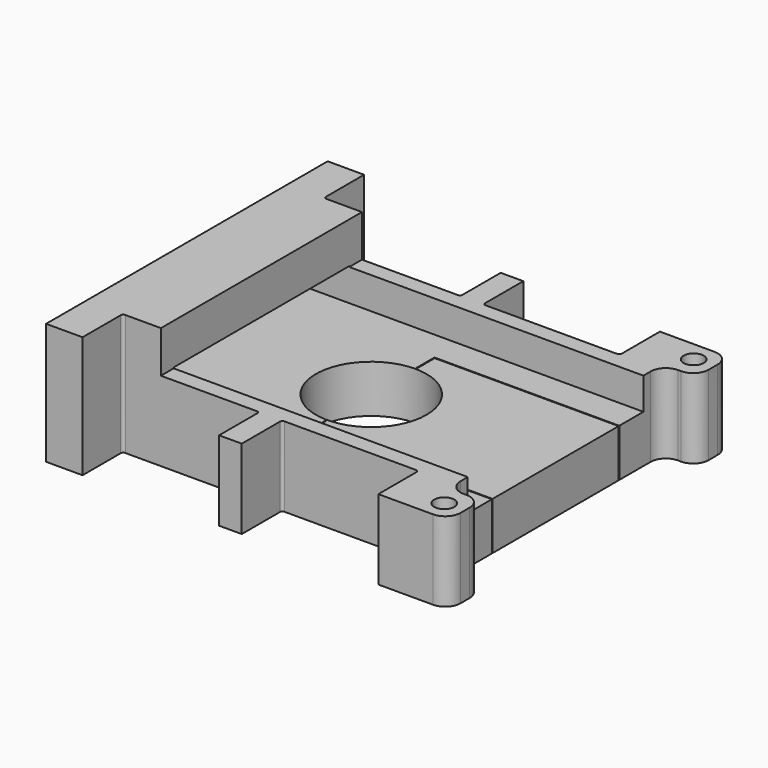
from build123d import *

# Parameters (mm, degrees)
SKETCH021_R          = 33
PAD012_DEPTH         = 35
PAD012_DEPTH_BACK    = 12.5
PAD013_START         = 12.5
SKETCH022_W          = 44.5
SKETCH022_H          = 210
PAD013_DEPTH         = 25
POCKET005_DEPTH      = 6.5
POCKET005_DEPTH_BACK = 13
SKETCH_2_R           = 6
POCKET006_DEPTH      = 50
POCKET006_DEPTH_BACK = 50
SKETCH028_R          = 6
POCKET011_DEPTH      = 180.001


with BuildPart() as part:
    # Sketch021 → Pad012 (new body, two sides)
    with BuildSketch(Plane.XY) as pad012_sk:
        with BuildLine():
            Line((-110, -105), (110, -105))
            Line((110, -105), (120.90162, -105))
            ThreePointArc((120.90162, -105), (127.335146, -102.335146), (130, -95.90162))
            Line((130, -95.90162), (130, -89.09838))
            ThreePointArc((130, -89.09838), (127.335146, -82.664854), (120.90162, -80))
            Line((120.90162, -80), (119.09838, -80))
            ThreePointArc((110, -70.90162), (112.664854, -77.335146), (119.09838, -80))
            Line((110, -70.90162), (110, 0))
            Line((110, 70.90162), (110, 0))
            ThreePointArc((119.09838, 80), (112.664854, 77.335146), (110, 70.90162))
            Line((120.90162, 80), (119.09838, 80))
            ThreePointArc((120.90162, 80), (127.335146, 82.664854), (130, 89.09838))
            Line((130, 95.90162), (130, 89.09838))
            ThreePointArc((130, 95.90162), (127.335146, 102.335146), (120.90162, 105))
            Line((110, 105), (120.90162, 105))
            Line((110, 105), (-110, 105))
            Line((-110, 105), (-110, 0))
            Line((-110, -105), (-110, 0))
        make_face()
        Circle(SKETCH021_R, mode=Mode.SUBTRACT)
    extrude(amount=-PAD012_DEPTH)
    extrude(pad012_sk.sketch, amount=PAD012_DEPTH_BACK)

    # Sketch022 → Pad013 (join)
    with BuildSketch(Plane.XY.offset(PAD013_START)):
        with Locations((-87.75, 0)):
            Rectangle(SKETCH022_W, SKETCH022_H)
    extrude(amount=PAD013_DEPTH)

    # Sketch_1 → Pocket005 (cut, two sides)
    with BuildSketch(Plane.XY) as pocket005_sk:
        Polygon((145.597992, 65.5), (0, 65.5), (-153.015656, 65.5), (-153.015656, -65.5), (0, -65.5), (145.597992, -65.5), align=None)
    extrude(amount=-POCKET005_DEPTH, mode=Mode.SUBTRACT)
    extrude(pocket005_sk.sketch, amount=POCKET005_DEPTH_BACK, mode=Mode.SUBTRACT)

    # Sketch_2 → Pocket006 (cut, two sides)
    with BuildSketch(Plane.XY) as pocket006_sk:
        with Locations((-118, 93)):
            Circle(SKETCH_2_R)
        with Locations((118, 93)):
            Circle(SKETCH_2_R)
        with Locations((-118, -93)):
            Circle(SKETCH_2_R)
        with Locations((118, -93)):
            Circle(SKETCH_2_R)
        Polygon((-0.25, 33.607407), (-0.25, 47.5), (126.736248, 47.5), (126.736248, 47), (0.25, 47), (0.25, 33.607407), align=None)
        with BuildLine():
            ThreePointArc((86.75, 75), (87.81066, 75.43934), (88.25, 76.5))
            Line((88.25, 105), (88.25, 76.5))
            Line((88.25, 105), (6.75, 105))
            Line((6.75, 105), (6.75, 76.5))
            ThreePointArc((6.75, 76.5), (7.18934, 75.43934), (8.25, 75))
            Line((86.75, 75), (8.25, 75))
        make_face()
        Polygon((-0.067348, -33.607407), (-0.067348, -47.5), (126.736248, -47.5), (126.736248, -47), (0.25, -47), (0.25, -33.607407), align=None)
        with BuildLine():
            ThreePointArc((-88.25, 76.5), (-87.81066, 75.43934), (-86.75, 75))
            Line((-86.75, 75), (-8.25, 75))
            ThreePointArc((-8.25, 75), (-7.18934, 75.43934), (-6.75, 76.5))
            Line((-6.75, 105), (-6.75, 76.5))
            Line((-88.25, 105), (-6.75, 105))
            Line((-88.25, 105), (-88.25, 76.5))
        make_face()
        with BuildLine():
            ThreePointArc((88.25, -76.5), (87.81066, -75.43934), (86.75, -75))
            Line((86.75, -75), (8.25, -75))
            ThreePointArc((8.25, -75), (7.18934, -75.43934), (6.75, -76.5))
            Line((6.75, -105), (6.75, -76.5))
            Line((88.25, -105), (6.75, -105))
            Line((88.25, -105), (88.25, -76.5))
        make_face()
        with BuildLine():
            ThreePointArc((-86.75, -75), (-87.81066, -75.43934), (-88.25, -76.5))
            Line((-88.25, -105), (-88.25, -76.5))
            Line((-88.25, -105), (-6.75, -105))
            Line((-6.75, -105), (-6.75, -76.5))
            ThreePointArc((-6.75, -76.5), (-7.18934, -75.43934), (-8.25, -75))
            Line((-86.75, -75), (-8.25, -75))
        make_face()
    extrude(amount=-POCKET006_DEPTH, mode=Mode.SUBTRACT)
    extrude(pocket006_sk.sketch, amount=POCKET006_DEPTH_BACK, mode=Mode.SUBTRACT)

    # Sketch028 → Pocket011 (cut, through all)
    with BuildSketch(Plane.XZ.offset(75)):
        with Locations((74, -21.75)):
            Circle(SKETCH028_R)
    extrude(amount=-POCKET011_DEPTH, mode=Mode.SUBTRACT)


solid = part.part
